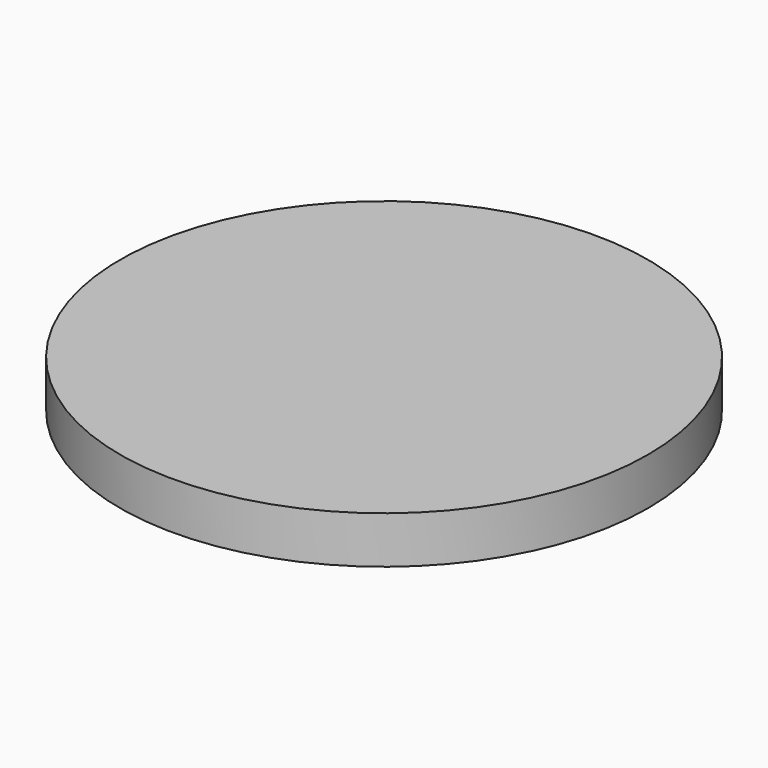
from build123d import *

# Parameters (mm, degrees)
F0_R     = 11.2
F1_DEPTH = 2
F3_DEPTH = 25


with BuildPart() as f1:
    # F0 (on Top) → F1 (new body)
    with BuildSketch(Plane.XY):
        Circle(F0_R)
    extrude(amount=F1_DEPTH)

    # F2 (on Top) → F3 (cut)
    with BuildSketch(Plane.XY):
        with BuildLine():
            add(Edge.make_bspline(
                [(-5.32056, 4.114055), (-4.9136, 4.604631), (-4.431978, 5.163606), (-3.74498, 6.363862), (-2.817296, 7.147703), (-1.461046, 8.003489), (0.139188, 7.709954), (2.013984, 7.914835), (3.572615, 6.835672), (4.265133, 5.295322), (6.177492, 4.214494), (3.998277, 2.478094), (5.98003, 1.419742), (5.354911, 0.559563), (4.709981, 0.405762), (4.722144, -0.527268), (3.962618, -0.312855), (3.442351, -0.645484), (3.028697, -1.023849), (2.897748, -1.148103)],
                knots=[0, 0, 0, 0, 1.604462, 2.601677, 3.999722, 5.254782, 7.230732, 8.614185, 10.871856, 12.176321, 13.916604, 15.63386, 17.349297, 17.831592, 18.401429, 19.196574, 19.631196, 20.321228, 21.054471, 21.054471, 21.054471, 21.054471], degree=3))
            add(Edge.make_bspline(
                [(-5.32056, 4.114055), (-5.373669, 4.067405), (-5.6112, 3.877572), (-5.131529, 3.612063), (-5.104622, 3.111812), (-4.71233, 2.604329), (-4.909772, 1.962673), (-5.298794, 1.506942), (-5.508954, 1.1214), (-5.65142, 0.714554), (-4.840464, 0.627859), (-4.902599, -0.494451), (-4.012954, -0.372929), (-3.402062, -0.766293), (-2.545645, -1.466922), (-2.44562, -2.743176), (-2.091251, -3.941679), (-1.610238, -5.15645), (-1.63844, -6.629013), (-0.665331, -8.35731), (0.791963, -7.599707), (0.452235, -7.191626), (0.661797, -6.972875), (0.896509, -7.097294), (1.147996, -6.791451), (1.542098, -6.679791), (1.505455, -5.946079), (1.430337, -4.968646), (2.138784, -4.137713), (2.096544, -2.975122), (2.868059, -2.046085), (2.540352, -1.20654), (2.636882, -0.43004), (2.819441, -0.950554), (2.897748, -1.148103)],
                knots=[0, 0, 0, 0, 0.286375, 0.552158, 1.232507, 1.754068, 2.339112, 3.051409, 3.519744, 3.779588, 4.062444, 5.413932, 5.650998, 6.553721, 7.489767, 8.860324, 10.130377, 11.311256, 12.669081, 14.768636, 15.531904, 15.81955, 15.965135, 16.287111, 16.390945, 17.097361, 17.188162, 18.538801, 19.960463, 20.079201, 22.013392, 22.759719, 23.080705, 23.626031, 23.626031, 23.626031, 23.626031], degree=3))
        make_face()
        with BuildLine():
            add(Edge.make_bspline(
                [(-4.266934, 2.02452), (-4.214918, 2.06648), (-4.013928, 2.199513), (-3.4527, 2.374769), (-2.574913, 1.794119), (-1.931197, 0.748292), (-1.183248, 1.205062), (-1.132917, 0.875217), (-1.272818, 0.711315), (-1.239713, 0.342555), (-1.779314, 0.298167), (-2.160248, 0.354992), (-2.367283, 0.128338), (-2.721332, 0.156808), (-3.10117, 0.419227), (-3.573287, 0.53215), (-3.99886, 1.035132), (-3.992722, 1.462856), (-4.327353, 1.975781), (-4.266934, 2.02452)],
                knots=[0, 0, 0, 0, 0.201468, 0.723403, 1.635588, 3.212323, 3.415719, 3.646106, 3.884813, 4.082369, 4.612466, 5.062961, 5.220914, 5.466167, 6.024058, 6.618163, 6.854385, 7.918335, 8.152344, 8.152344, 8.152344, 8.152344], degree=3))
        make_face(mode=Mode.SUBTRACT)
        with BuildLine():
            add(Edge.make_bspline(
                [(1.124104, 1.108665), (1.164475, 1.037634), (1.314514, 0.8822), (2.188352, 1.67619), (2.878039, 2.28551), (3.795472, 2.329398), (4.335287, 2.141887), (3.828308, 1.601768), (4.103096, 0.895951), (3.468552, 0.809642), (3.09901, 0.469469), (2.56374, 0.142194), (1.907367, 0.246688), (1.169629, -0.030109), (0.987339, 1.349297), (1.124104, 1.108665)],
                knots=[0, 0, 0, 0, 0.187947, 0.641377, 2.753625, 3.068192, 3.536295, 3.915843, 4.80239, 4.9918, 5.665765, 6.31646, 6.748381, 7.641441, 8.278152, 8.278152, 8.278152, 8.278152], degree=3))
        make_face(mode=Mode.SUBTRACT)
    extrude(amount=-F3_DEPTH, mode=Mode.SUBTRACT)


solid = f1.part
